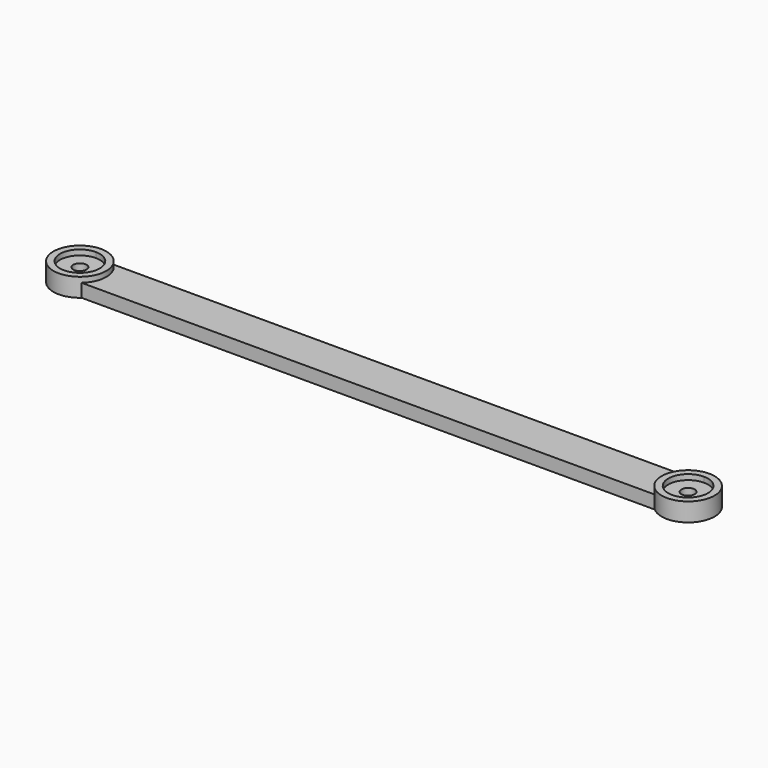
from build123d import *

# Parameters (mm, degrees)
F0_R     = 0.5
F1_DEPTH = 1
F2_DEPTH = 1.4


with BuildPart() as f1:
    # F0 (on Top) → F1 (new body)
    with BuildSketch(Plane.XY):
        with BuildLine():
            ThreePointArc((-23, 1.5), (-24.5, 0), (-23, -1.5))
            ThreePointArc((-23, -1.5), (-21.9393398282, -1.0606601718), (-21.5, 0))
            ThreePointArc((-21.5, 0), (-21.9393398282, 1.0606601718), (-23, 1.5))
        make_face()
        with Locations((-23, 0)):
            Circle(F0_R, mode=Mode.SUBTRACT)
        with BuildLine():
            Line((-23, -1.5), (-24.3228756555, -1.5))
            ThreePointArc((-24.3228756555, -1.5), (-23, -2), (-21.6771243445, -1.5))
            Line((-21.6771243445, -1.5), (-23, -1.5))
        make_face()
        with BuildLine():
            ThreePointArc((-21.6771243445, 1.5), (-23, 2), (-24.3228756555, 1.5))
            Line((-24.3228756555, 1.5), (-23, 1.5))
            Line((-23, 1.5), (-21.6771243445, 1.5))
        make_face()
        with BuildLine():
            ThreePointArc((-21, 0), (-21.1771243445, -0.8228756555), (-21.6771243445, -1.5))
            Line((-21.6771243445, -1.5), (21.6771243445, -1.5))
            ThreePointArc((21.6771243445, -1.5), (21, 0), (21.6771243445, 1.5))
            Line((21.6771243445, 1.5), (-21.6771243445, 1.5))
            ThreePointArc((-21.6771243445, 1.5), (-21.1771243445, 0.8228756555), (-21, 0))
        make_face()
        with BuildLine():
            ThreePointArc((23, 1.5), (21.5, 0), (23, -1.5))
            ThreePointArc((23, -1.5), (24.0606601718, -1.0606601718), (24.5, 0))
            ThreePointArc((24.5, 0), (24.0606601718, 1.0606601718), (23, 1.5))
        make_face()
        with Locations((23, 0)):
            Circle(F0_R, mode=Mode.SUBTRACT)
        with BuildLine():
            Line((23, -1.5), (21.6771243445, -1.5))
            ThreePointArc((21.6771243445, -1.5), (23, -2), (24.3228756555, -1.5))
            Line((24.3228756555, -1.5), (23, -1.5))
        make_face()
        with BuildLine():
            ThreePointArc((24.3228756555, 1.5), (23, 2), (21.6771243445, 1.5))
            Line((21.6771243445, 1.5), (23, 1.5))
            Line((23, 1.5), (24.3228756555, 1.5))
        make_face()
        with BuildLine():
            ThreePointArc((21.6771243445, 1.5), (21, 0), (21.6771243445, -1.5))
            Line((21.6771243445, -1.5), (23, -1.5))
            ThreePointArc((23, -1.5), (21.5, 0), (23, 1.5))
            Line((23, 1.5), (21.6771243445, 1.5))
        make_face()
        with BuildLine():
            ThreePointArc((24.5, 0), (24.0606601718, -1.0606601718), (23, -1.5))
            Line((23, -1.5), (24.3228756555, -1.5))
            ThreePointArc((24.3228756555, -1.5), (24.8228756555, -0.8228756555), (25, 0))
            ThreePointArc((25, 0), (24.8228756555, 0.8228756555), (24.3228756555, 1.5))
            Line((24.3228756555, 1.5), (23, 1.5))
            ThreePointArc((23, 1.5), (24.0606601718, 1.0606601718), (24.5, 0))
        make_face()
        with BuildLine():
            ThreePointArc((-25, 0), (-24.8228756555, -0.8228756555), (-24.3228756555, -1.5))
            Line((-24.3228756555, -1.5), (-23, -1.5))
            ThreePointArc((-23, -1.5), (-24.5, 0), (-23, 1.5))
            Line((-23, 1.5), (-24.3228756555, 1.5))
            ThreePointArc((-24.3228756555, 1.5), (-24.8228756555, 0.8228756555), (-25, 0))
        make_face()
        with BuildLine():
            ThreePointArc((-21.5, 0), (-21.9393398282, -1.0606601718), (-23, -1.5))
            Line((-23, -1.5), (-21.6771243445, -1.5))
            ThreePointArc((-21.6771243445, -1.5), (-21.1771243445, -0.8228756555), (-21, 0))
            ThreePointArc((-21, 0), (-21.1771243445, 0.8228756555), (-21.6771243445, 1.5))
            Line((-21.6771243445, 1.5), (-23, 1.5))
            ThreePointArc((-23, 1.5), (-21.9393398282, 1.0606601718), (-21.5, 0))
        make_face()
    extrude(amount=F1_DEPTH)

    # F0 (on Top) → F2 (join)
    with BuildSketch(Plane.XY):
        with BuildLine():
            Line((-23, -1.5), (-24.3228756555, -1.5))
            ThreePointArc((-24.3228756555, -1.5), (-23, -2), (-21.6771243445, -1.5))
            Line((-21.6771243445, -1.5), (-23, -1.5))
        make_face()
        with BuildLine():
            ThreePointArc((-25, 0), (-24.8228756555, -0.8228756555), (-24.3228756555, -1.5))
            Line((-24.3228756555, -1.5), (-23, -1.5))
            ThreePointArc((-23, -1.5), (-24.5, 0), (-23, 1.5))
            Line((-23, 1.5), (-24.3228756555, 1.5))
            ThreePointArc((-24.3228756555, 1.5), (-24.8228756555, 0.8228756555), (-25, 0))
        make_face()
        with BuildLine():
            ThreePointArc((-21.5, 0), (-21.9393398282, -1.0606601718), (-23, -1.5))
            Line((-23, -1.5), (-21.6771243445, -1.5))
            ThreePointArc((-21.6771243445, -1.5), (-21.1771243445, -0.8228756555), (-21, 0))
            ThreePointArc((-21, 0), (-21.1771243445, 0.8228756555), (-21.6771243445, 1.5))
            Line((-21.6771243445, 1.5), (-23, 1.5))
            ThreePointArc((-23, 1.5), (-21.9393398282, 1.0606601718), (-21.5, 0))
        make_face()
        with BuildLine():
            ThreePointArc((-21.6771243445, 1.5), (-23, 2), (-24.3228756555, 1.5))
            Line((-24.3228756555, 1.5), (-23, 1.5))
            Line((-23, 1.5), (-21.6771243445, 1.5))
        make_face()
        with BuildLine():
            Line((23, -1.5), (21.6771243445, -1.5))
            ThreePointArc((21.6771243445, -1.5), (23, -2), (24.3228756555, -1.5))
            Line((24.3228756555, -1.5), (23, -1.5))
        make_face()
        with BuildLine():
            ThreePointArc((24.5, 0), (24.0606601718, -1.0606601718), (23, -1.5))
            Line((23, -1.5), (24.3228756555, -1.5))
            ThreePointArc((24.3228756555, -1.5), (24.8228756555, -0.8228756555), (25, 0))
            ThreePointArc((25, 0), (24.8228756555, 0.8228756555), (24.3228756555, 1.5))
            Line((24.3228756555, 1.5), (23, 1.5))
            ThreePointArc((23, 1.5), (24.0606601718, 1.0606601718), (24.5, 0))
        make_face()
        with BuildLine():
            ThreePointArc((24.3228756555, 1.5), (23, 2), (21.6771243445, 1.5))
            Line((21.6771243445, 1.5), (23, 1.5))
            Line((23, 1.5), (24.3228756555, 1.5))
        make_face()
        with BuildLine():
            ThreePointArc((21.6771243445, 1.5), (21, 0), (21.6771243445, -1.5))
            Line((21.6771243445, -1.5), (23, -1.5))
            ThreePointArc((23, -1.5), (21.5, 0), (23, 1.5))
            Line((23, 1.5), (21.6771243445, 1.5))
        make_face()
    extrude(amount=F2_DEPTH)


solid = f1.part
